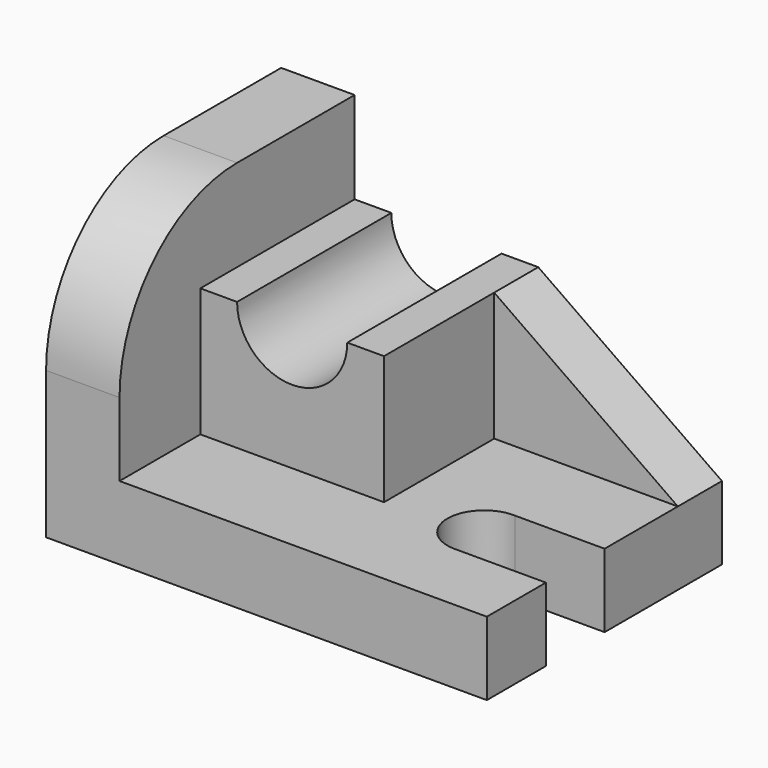
from build123d import *

# Parameters (mm, degrees)
F0_W      = 96
F0_H      = 64
F1_DEPTH  = 16
F2_W      = 16
F2_H      = 64
F3_DEPTH  = 48
F4_R      = 32
F5_W      = 40
F5_H      = 42
F6_DEPTH  = 28
F8_DEPTH  = 52.07
F9_W      = 40
F9_H      = 12
F10_DEPTH = 28
F12_DEPTH = 25.4
F14_W     = 19.9191475213
F14_H     = 15.9830040127
F15_DEPTH = 25
F17_DEPTH = 25


with BuildPart() as f1:
    # F0 (on Top) → F1 (new body)
    with BuildSketch(Plane.XY):
        with Locations((4.9427039921, 10.6956655151)):
            Rectangle(F0_W, F0_H)
    extrude(amount=F1_DEPTH)

    # F2 (on face) → F3 (join)
    with BuildSketch(Plane.XY.offset(16)):
        with Locations((-35.0572960079, 10.6956655151)):
            Rectangle(F2_W, F2_H)
    extrude(amount=F3_DEPTH)

    # F4
    f4_edges = [f1.edges().sort_by_distance(p)[0] for p in [
        (-35.057296, -21.304334, 64),
    ]]
    fillet(f4_edges, radius=F4_R)

    # F5 (on face) → F6 (join)
    with BuildSketch(Plane.XY.offset(16)):
        with Locations((-7.0572960079, 21.6956655151)):
            Rectangle(F5_W, F5_H)
    extrude(amount=F6_DEPTH)

    # F7 (on face) → F8 (cut)
    with BuildSketch(Plane.XZ.offset(-0.6956655151)):
        with BuildLine():
            ThreePointArc((-19.0572960079, 44), (-7.0572960079, 32), (4.9427039921, 44))
            Line((4.9427039921, 44), (-19.0572960079, 44))
        make_face()
    extrude(amount=-F8_DEPTH, mode=Mode.SUBTRACT)

    # F9 (on face) → F10 (join)
    with BuildSketch(Plane.XY.offset(16)):
        with Locations((32.9427039921, 36.6956655151)):
            Rectangle(F9_W, F9_H)
    extrude(amount=F10_DEPTH)

    # F11 (on face) → F12 (cut)
    with BuildSketch(Plane.XZ.offset(-30.6956655151)):
        Polygon((52.9427039921, 44), (12.9427039921, 44), (52.9427039921, 16), align=None)
    extrude(amount=-F12_DEPTH, mode=Mode.SUBTRACT)

    # F14 (on face) → F15 (cut)
    with BuildSketch(Plane.XY.offset(16)):
        with Locations((42.9831302315, 2.765810062)):
            Rectangle(F14_W, F14_H)
    extrude(amount=-F15_DEPTH, mode=Mode.SUBTRACT)

    # F16 (on face) → F17 (cut)
    with BuildSketch(Plane.XY.offset(16)):
        with BuildLine():
            Line((33.0235564709, 10.7573120683), (33.4770667325, 10.7573120683))
            ThreePointArc((33.4770667325, 10.7573120683), (25.1183803566, 3.0327593017), (32.9427039921, -5.2326089915))
            Line((32.9427039921, -5.2326089915), (32.9427039921, -5.2256919444))
            Line((32.9427039921, -5.2256919444), (33.0235564709, -5.2256919444))
            Line((33.0235564709, -5.2256919444), (33.0235564709, 10.7573120683))
        make_face()
    extrude(amount=-F17_DEPTH, mode=Mode.SUBTRACT)


solid = f1.part
